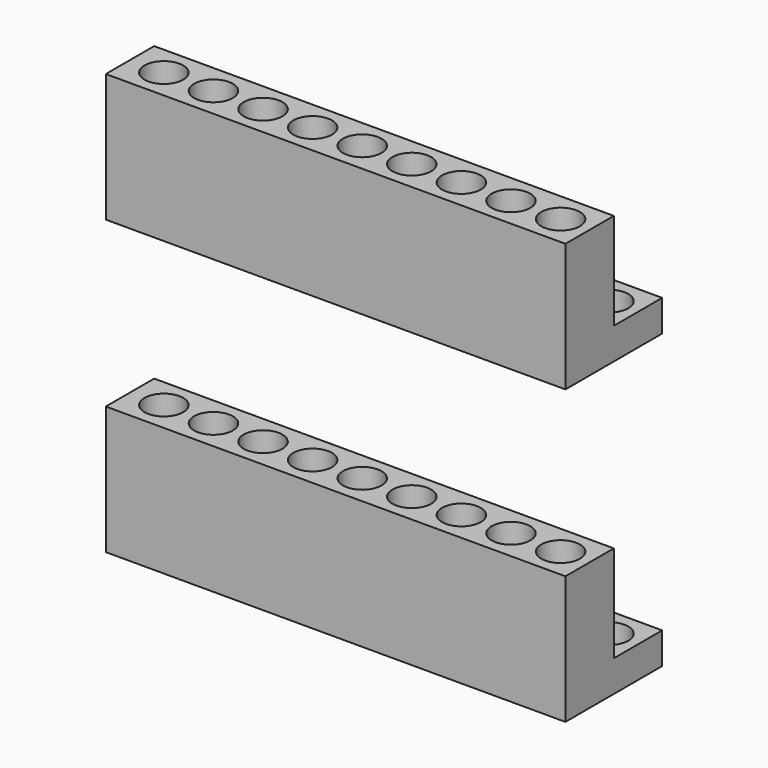
from build123d import *

# Parameters (mm, degrees)
F0_W     = 190
F0_H     = 25
F1_DEPTH = 13
F2_DEPTH = 53
F4_R     = 8
F5_DEPTH = 13
F3_R     = 8
F6_DEPTH = 10


with BuildPart() as f1:
    # F0 (on Top) → F1 (new body)
    with BuildSketch(Plane.XY):
        with Locations((-43.201877, -47.992969)):
            Rectangle(F0_W, F0_H)
    extrude(amount=F1_DEPTH)

    # F0 (on Top) → F2 (join)
    with BuildSketch(Plane.XY):
        with Locations((-43.201877, -72.992969)):
            Rectangle(F0_W, F0_H)
    extrude(amount=F2_DEPTH)

    # F4 (on face) → F5 (cut)
    with BuildSketch(Plane.XY.offset(53)):
        with Locations((39.798123, -72.992973)):
            Circle(F4_R)
        with Locations((19.298123, -72.992973)):
            Circle(F4_R)
        with Locations((-1.201877, -72.992973)):
            Circle(F4_R)
        with Locations((-21.701877, -72.992973)):
            Circle(F4_R)
        with Locations((-42.201877, -72.992973)):
            Circle(F4_R)
        with Locations((-62.701877, -72.992973)):
            Circle(F4_R)
        with Locations((-83.201877, -72.992973)):
            Circle(F4_R)
        with Locations((-103.701877, -72.992973)):
            Circle(F4_R)
        with Locations((-124.201877, -72.992973)):
            Circle(F4_R)
    extrude(amount=-F5_DEPTH, mode=Mode.SUBTRACT)

    # F3 (on face) → F6 (cut)
    with BuildSketch(Plane.XY.offset(13)):
        with Locations((39.798123, -47.992969)):
            Circle(F3_R)
        with Locations((19.298123, -47.992969)):
            Circle(F3_R)
        with Locations((-1.201877, -47.992969)):
            Circle(F3_R)
        with Locations((-21.701877, -47.992969)):
            Circle(F3_R)
        with Locations((-42.201877, -47.992969)):
            Circle(F3_R)
        with Locations((-62.701877, -47.992969)):
            Circle(F3_R)
        with Locations((-83.201877, -47.992969)):
            Circle(F3_R)
        with Locations((-103.701877, -47.992969)):
            Circle(F3_R)
        with Locations((-124.201877, -47.992969)):
            Circle(F3_R)
    extrude(amount=-F6_DEPTH, mode=Mode.SUBTRACT)


with BuildPart() as f7_1:
    # F7: copy of F1
    add(f1.part.moved(Location((0, 0, -121))))


solid = Compound([f1.part, f7_1.part])
